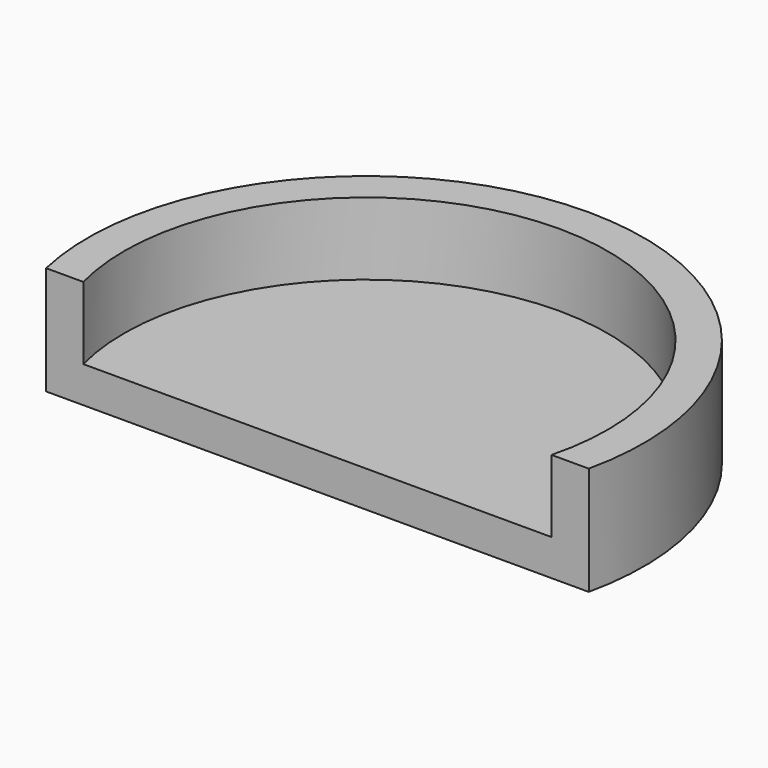
from build123d import *

# Parameters (mm, degrees)
F0_DEPTH = 3
F1_T     = -1


with BuildPart() as f0:
    # F2 (on Top) → F0 (new body)
    with BuildSketch(Plane.XY):
        with BuildLine():
            Line((-7.5, 0), (7.5, 0))
            ThreePointArc((7.5, 0), (0, 9.358915), (-7.5, 0))
        make_face()
    extrude(amount=F0_DEPTH)

    # F1
    f1_openings = [f0.faces().sort_by_distance(p)[0] for p in [
        (0, 4.051966, 3),
        (0, 0, 1.5),
    ]]
    offset(amount=F1_T, openings=f1_openings)


solid = f0.part
